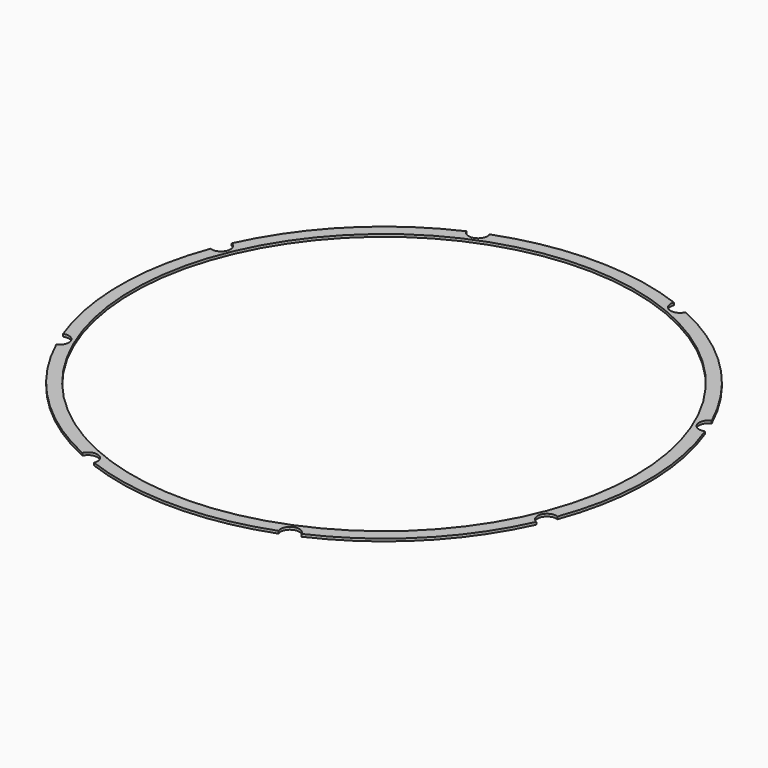
from build123d import *

# Parameters (mm, degrees)
CYLINDER1506_R               = 1.5
CYLINDER1506_DEPTH           = 32
CYLINDER1506_PLACEMENT_ANGLE = 45
CYLINDER1509_R               = 1.5
CYLINDER1509_DEPTH           = 32
CYLINDER1510_R               = 1.5
CYLINDER1510_DEPTH           = 32
CYLINDER1510_PLACEMENT_ANGLE = 135
CYLINDER1511_R               = 1.5
CYLINDER1511_DEPTH           = 32
CYLINDER1508_R               = 1.5
CYLINDER1508_DEPTH           = 32
CYLINDER1508_PLACEMENT_ANGLE = 225
CYLINDER1512_R               = 1.5
CYLINDER1512_DEPTH           = 32
CYLINDER1505_R               = 1.5
CYLINDER1505_DEPTH           = 32
CYLINDER1505_PLACEMENT_ANGLE = 45
CYLINDER1504_R               = 1.5
CYLINDER1504_DEPTH           = 32
COMPOUND1000_PLACEMENT_ANGLE = 22.5
TUBE139_R                    = 42
TUBE139_R_2                  = 40
TUBE139_DEPTH                = 0.4


with BuildPart() as obj1:
    # Cylinder1506 → Cylinder1506 (new body)
    with BuildSketch(Plane.XY):
        Circle(CYLINDER1506_R)
    extrude(amount=CYLINDER1506_DEPTH)


with BuildPart() as obj1_1:
    # Cylinder1506 placement: moved
    add(obj1.part.moved(Location((29.698485, -29.698485, 33.5))).rotate(Axis((29.698485, -29.698485, 33.5), (0, 0, 1)), CYLINDER1506_PLACEMENT_ANGLE))


with BuildPart() as obj2:
    # Cylinder1509 → Cylinder1509 (new body)
    with BuildSketch(Plane(origin=(42, 0, 33.5), x_dir=(0, 1, 0), z_dir=(0, 0, 1))):
        Circle(CYLINDER1509_R)
    extrude(amount=CYLINDER1509_DEPTH)


with BuildPart() as obj3:
    # Cylinder1510 → Cylinder1510 (new body)
    with BuildSketch(Plane.XY):
        Circle(CYLINDER1510_R)
    extrude(amount=CYLINDER1510_DEPTH)


with BuildPart() as obj3_1:
    # Cylinder1510 placement: moved
    add(obj3.part.moved(Location((29.698485, 29.698485, 33.5))).rotate(Axis((29.698485, 29.698485, 33.5), (0, 0, 1)), CYLINDER1510_PLACEMENT_ANGLE))


with BuildPart() as obj4:
    # Cylinder1511 → Cylinder1511 (new body)
    with BuildSketch(Plane(origin=(0, 42, 33.5), x_dir=(-1, 0, 0), z_dir=(0, 0, 1))):
        Circle(CYLINDER1511_R)
    extrude(amount=CYLINDER1511_DEPTH)


with BuildPart() as obj5:
    # Cylinder1508 → Cylinder1508 (new body)
    with BuildSketch(Plane.XY):
        Circle(CYLINDER1508_R)
    extrude(amount=CYLINDER1508_DEPTH)


with BuildPart() as obj5_1:
    # Cylinder1508 placement: moved
    add(obj5.part.moved(Location((-29.698485, 29.698485, 33.5))).rotate(Axis((-29.698485, 29.698485, 33.5), (0, 0, 1)), CYLINDER1508_PLACEMENT_ANGLE))


with BuildPart() as obj6:
    # Cylinder1512 → Cylinder1512 (new body)
    with BuildSketch(Plane(origin=(-42, 0, 33.5), x_dir=(0, -1, 0), z_dir=(0, 0, 1))):
        Circle(CYLINDER1512_R)
    extrude(amount=CYLINDER1512_DEPTH)


with BuildPart() as obj7:
    # Cylinder1505 → Cylinder1505 (new body)
    with BuildSketch(Plane.XY):
        Circle(CYLINDER1505_R)
    extrude(amount=CYLINDER1505_DEPTH)


with BuildPart() as obj7_1:
    # Cylinder1505 placement: moved
    add(obj7.part.moved(Location((-29.698485, -29.698485, 33.5))).rotate(Axis((-29.698485, -29.698485, 33.5), (0, 0, -1)), CYLINDER1505_PLACEMENT_ANGLE))


with BuildPart() as compound1000:
    # Cylinder1504 → Cylinder1504 (new body)
    with BuildSketch(Plane(origin=(0, -42, 33.5), x_dir=(1, 0, 0), z_dir=(0, 0, 1))):
        Circle(CYLINDER1504_R)
    extrude(amount=CYLINDER1504_DEPTH)

    # Compound1000: union obj1, obj2, obj3, obj4, obj5, obj6, obj7
    add(obj1_1.part)
    add(obj2.part)
    add(obj3_1.part)
    add(obj4.part)
    add(obj5_1.part)
    add(obj6.part)
    add(obj7_1.part)


with BuildPart() as compound1000_1:
    # Compound1000 placement: moved
    add(compound1000.part.rotate(Axis((0, 0, 0), (0, 0, 1)), COMPOUND1000_PLACEMENT_ANGLE))


with BuildPart() as cut537:
    # Tube139 → Tube139 (new body)
    with BuildSketch(Plane.XY.offset(38)):
        Circle(TUBE139_R)
        Circle(TUBE139_R_2, mode=Mode.SUBTRACT)
    extrude(amount=TUBE139_DEPTH)

    # Cut537: cut Compound1000
    add(compound1000_1.part, mode=Mode.SUBTRACT)


with BuildPart() as cut537_1:
    # Cut537 placement: moved
    add(cut537.part.moved(Location((0, 0, 1))))


solid = cut537_1.part
